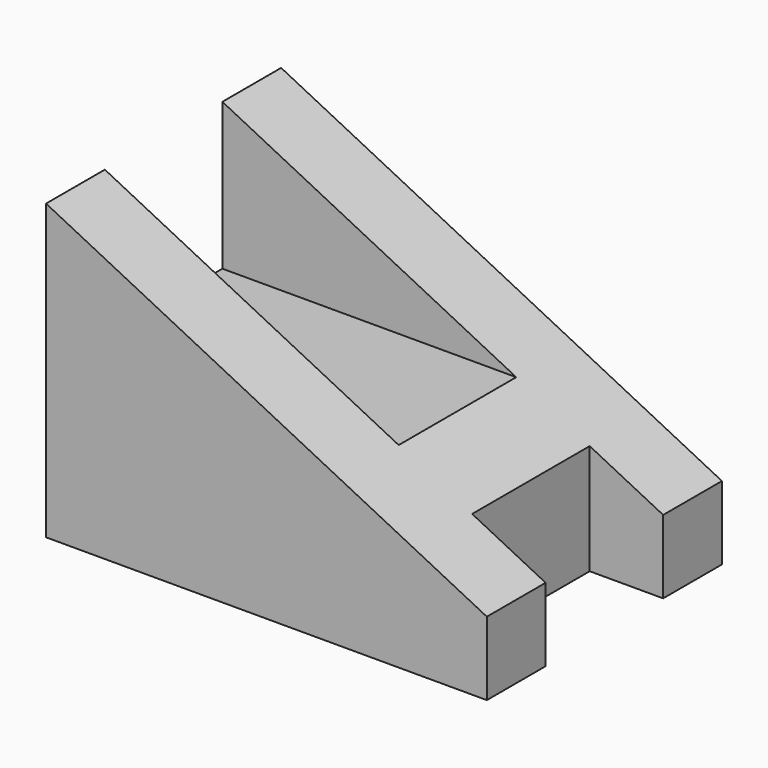
from build123d import *

# Parameters (mm, degrees)
F1_DEPTH = 10
F2_W     = 10
F2_H     = 10
F3_DEPTH = 20
F4_W     = 5
F4_H     = 10
F5_DEPTH = 25


with BuildPart() as f1:
    # F0 (on Front) → F1 (new body, symmetric)
    with BuildSketch(Plane.XZ):
        Polygon((0, 20), (0, 0), (30, 0), (30, 5), align=None)
    extrude(amount=F1_DEPTH, both=True)

    # F2 (on face) → F3 (cut)
    with BuildSketch(Plane(origin=(0, 0, 0), x_dir=(0, -1, 0), z_dir=(-1, 0, 0))):
        with Locations((0, 15)):
            Rectangle(F2_W, F2_H)
    extrude(amount=-F3_DEPTH, mode=Mode.SUBTRACT)

    # F4 (on face) → F5 (cut)
    with BuildSketch(Plane(origin=(0, 0, 0), x_dir=(1, 0, 0), z_dir=(0, 0, -1))):
        with Locations((27.5, 0)):
            Rectangle(F4_W, F4_H)
    extrude(amount=-F5_DEPTH, mode=Mode.SUBTRACT)


solid = f1.part
